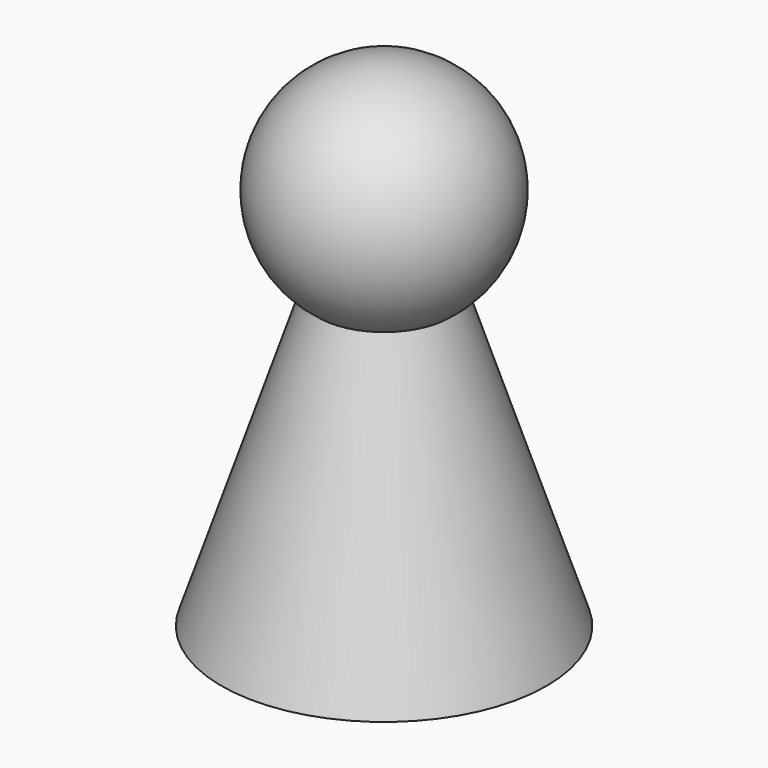
from build123d import *


with BuildPart() as part:
    # Sketch → Revolution (revolve)
    with BuildSketch(Plane.XZ):
        with BuildLine():
            ThreePointArc((7.233784, 32.212917), (11.761996, 46.037212), (0, 54.597076))
            Line((0, 0), (0, 54.597076))
            Line((17.894983, 0), (0, 0))
            Line((7.233784, 32.212917), (17.894983, 0))
        make_face()
    revolve(axis=Axis((0, 0, 0), (0, 0, 1)))


solid = part.part
